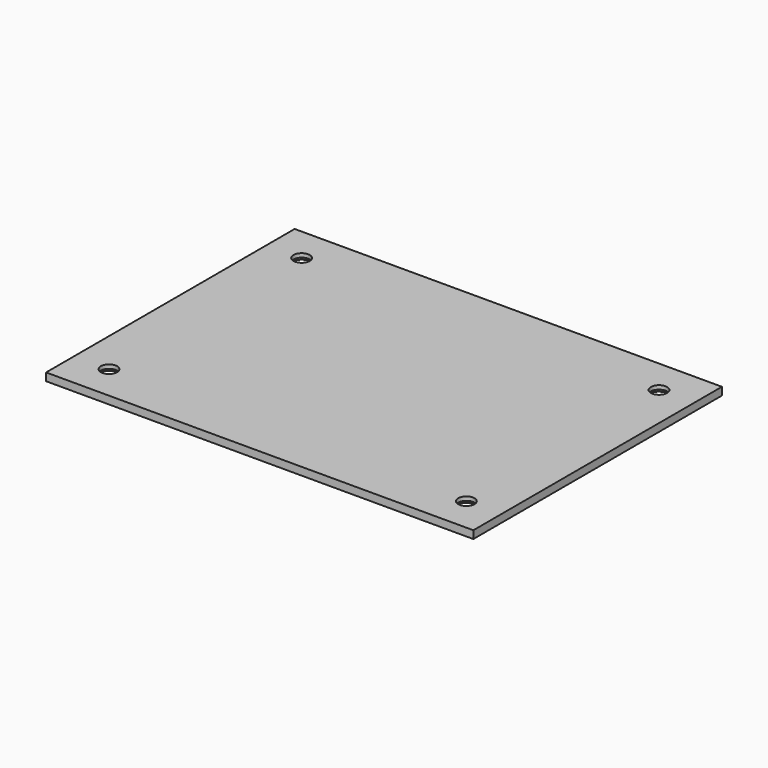
from build123d import *

# Parameters (mm, degrees)
SKETCH_W     = 110
SKETCH_H     = 80
PAD_DEPTH    = 2
SKETCH001_R  = 2.1
POCKET_DEPTH = 5
CHAMFER_SIZE = 1


with BuildPart() as part:
    # Sketch → Pad (new body)
    with BuildSketch(Plane.XY):
        Rectangle(SKETCH_W, SKETCH_H)
    extrude(amount=PAD_DEPTH)

    # Sketch001 (on Face6 of Pad) → Pocket (cut)
    with BuildSketch(Plane.XY.offset(2)):
        with Locations((46, 31)):
            Circle(SKETCH001_R)
        with Locations((-46, 31)):
            Circle(SKETCH001_R)
        with Locations((-46, -31)):
            Circle(SKETCH001_R)
        with Locations((46, -31)):
            Circle(SKETCH001_R)
    extrude(amount=-POCKET_DEPTH, mode=Mode.SUBTRACT)

    # Chamfer
    chamfer_edges = [part.edges().sort_by_distance(p)[0] for p in [
        (-48.1, -31, 0),
        (-48.1, 31, 0),
        (43.9, 31, 0),
        (43.9, -31, 0),
    ]]
    chamfer(chamfer_edges, length=CHAMFER_SIZE)


solid = part.part
